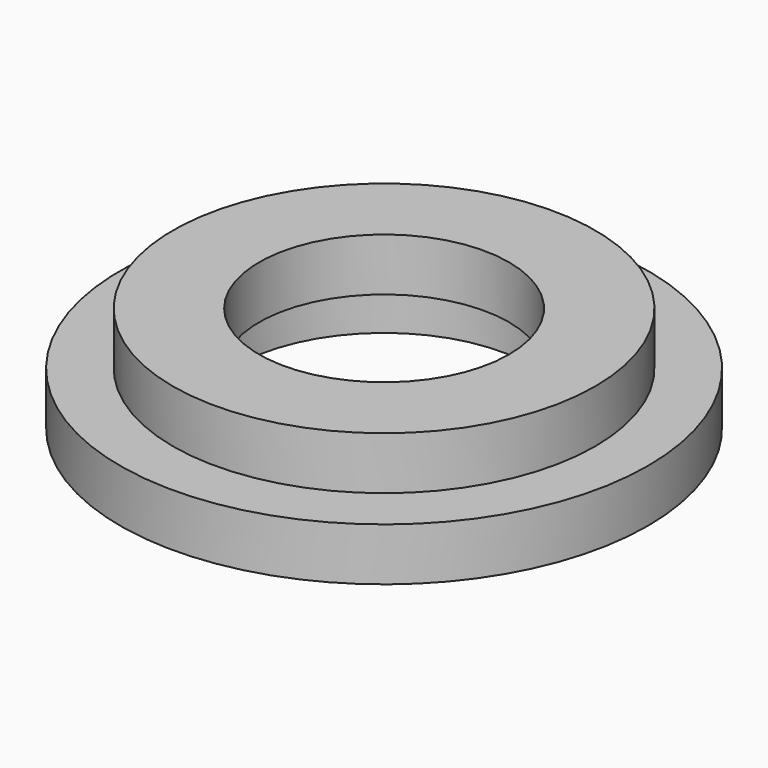
from build123d import *

# Parameters (mm, degrees)
SKETCH_R      = 9.525
SKETCH_R_2    = 6.223
PAD_DEPTH     = 1.905
SKETCH001_R   = 6.096
SKETCH001_R_2 = 5.334
PAD001_DEPTH  = 1.651
SKETCH002_R   = 7.62
PAD002_DEPTH  = 1.905
SKETCH003_R   = 4.5085
HOLE_DEPTH    = 1.906


with BuildPart() as lower_washer:
    # Sketch → Pad (new body)
    with BuildSketch(Plane.XY):
        Circle(SKETCH_R)
        Circle(SKETCH_R_2, mode=Mode.SUBTRACT)
    extrude(amount=-PAD_DEPTH)


with BuildPart() as upper_washer:
    # Sketch001 → Pad001 (new body)
    with BuildSketch(Plane.XY):
        Circle(SKETCH001_R)
        Circle(SKETCH001_R_2, mode=Mode.SUBTRACT)
    extrude(amount=-PAD001_DEPTH)

    # Sketch002 → Pad002 (join)
    with BuildSketch(Plane.XY):
        Circle(SKETCH002_R)
    extrude(amount=PAD002_DEPTH)

    # Sketch003 → Hole (cut, through all)
    with BuildSketch(Plane.XY):
        Circle(SKETCH003_R)
    extrude(amount=HOLE_DEPTH, mode=Mode.SUBTRACT)


solid = Compound([lower_washer.part, upper_washer.part])
